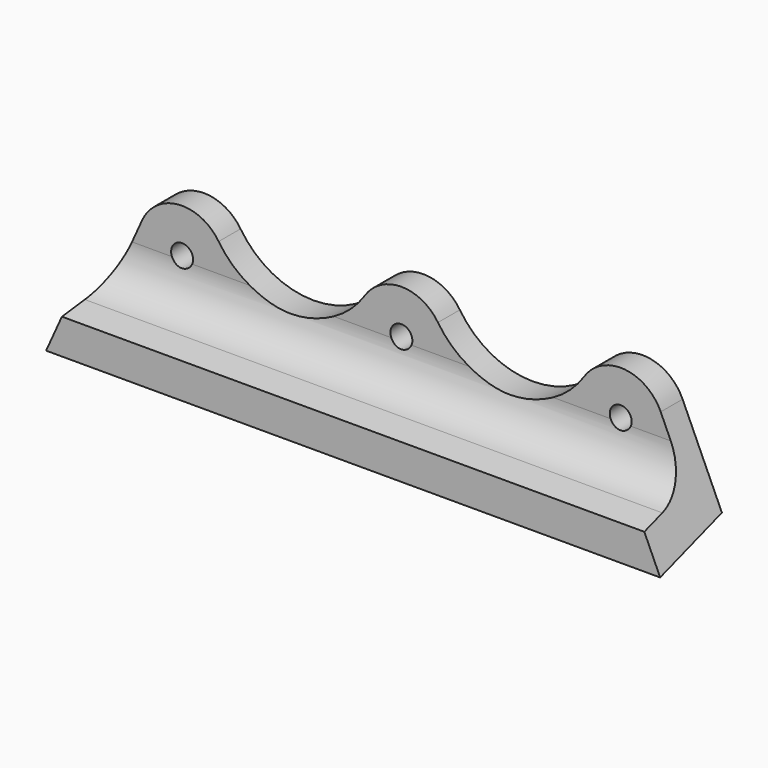
from build123d import *

# Parameters (mm, degrees)
F0_R     = 3.175
F1_DEPTH = 25.4
F2_W     = 38.951648
F2_H     = 45.7977
F3_DEPTH = 190.5


with BuildPart() as f1:
    # F0 (on Front) → F1 (new body)
    with BuildSketch(Plane.XZ):
        with BuildLine():
            Line((-75.07526, 30.62526), (-88.9, 0))
            Line((-88.9, 0), (88.9, 0))
            Line((88.9, 0), (75.07526, 30.62526))
            ThreePointArc((75.07526, 30.62526), (64.525389, 38.058538), (52.916667, 32.420189))
            ThreePointArc((52.916667, 32.420189), (31.75, 21.060567), (10.583333, 32.420189))
            ThreePointArc((10.583333, 32.420189), (0, 38.1), (-10.583333, 32.420189))
            ThreePointArc((-10.583333, 32.420189), (-31.75, 21.060567), (-52.916667, 32.420189))
            ThreePointArc((-52.916667, 32.420189), (-64.525389, 38.058538), (-75.07526, 30.62526))
        make_face()
        with Locations((-63.5, 25.4)):
            Circle(F0_R, mode=Mode.SUBTRACT)
        with Locations((0, 25.4)):
            Circle(F0_R, mode=Mode.SUBTRACT)
        with Locations((63.5, 25.4)):
            Circle(F0_R, mode=Mode.SUBTRACT)
    extrude(amount=F1_DEPTH)

    # F2 (on Right) → F3 (cut, symmetric)
    with BuildSketch(Plane.YZ):
        with Locations((-12.751271, 19.836615)):
            Rectangle(F2_W, F2_H)
        with BuildLine():
            Line((-7.9248, 38.1), (0, 38.1))
            Line((0, 38.1), (0, 5.398937))
            Line((0, 5.398937), (-25.4, 0))
            Line((-25.4, 0), (-25.4, 10.16))
            Line((-25.4, 10.16), (-17.984322, 11.736251))
            ThreePointArc((-17.984322, 11.736251), (-10.755046, 16.166357), (-7.9248, 24.158726))
            Line((-7.9248, 24.158726), (-7.9248, 38.1))
        make_face(mode=Mode.SUBTRACT)
    extrude(amount=F3_DEPTH, both=True, mode=Mode.SUBTRACT)


solid = f1.part
